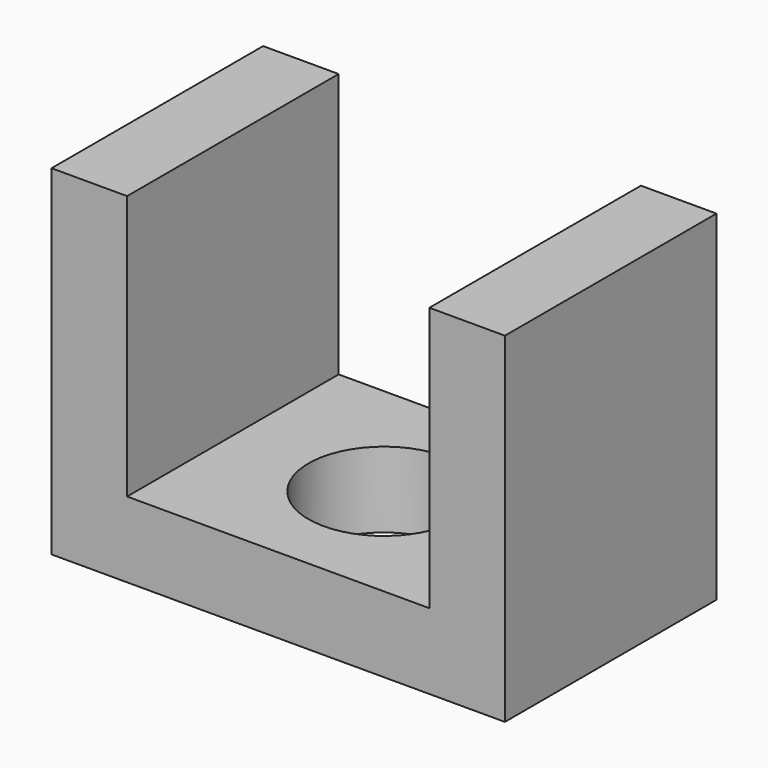
from build123d import *

# Parameters (mm, degrees)
F1_DEPTH = 35
F2_R     = 10
F3_DEPTH = 10.001


with BuildPart() as f1:
    # F0 (on Front) → F1 (new body)
    with BuildSketch(Plane.XZ):
        Polygon((0, 45), (0, 0), (60, 0), (60, 45), (50, 45), (50, 10), (10, 10), (10, 45), align=None)
    extrude(amount=F1_DEPTH)

    # F2 (on face) → F3 (cut, through all)
    with BuildSketch(Plane.XY.offset(10)):
        with Locations((30, -17.5)):
            Circle(F2_R)
    extrude(amount=-F3_DEPTH, mode=Mode.SUBTRACT)


solid = f1.part
